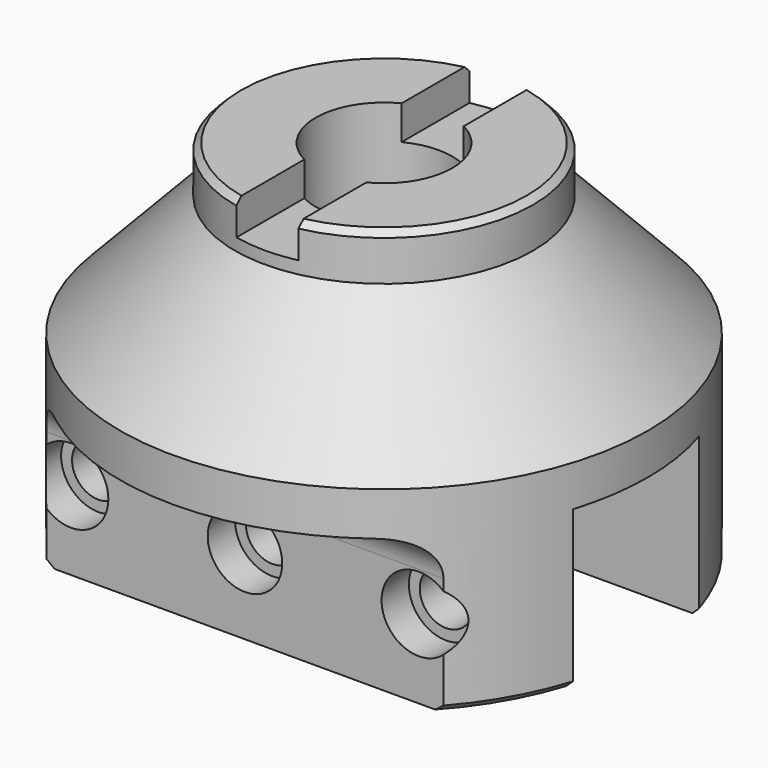
from build123d import *

# Parameters (mm, degrees)
F2_W      = 5.5
F2_H      = 5
F4_W      = 25.4
F4_H      = 25.4
F5_DEPTH  = 50
F6_W      = 10
F6_H      = 5.5
F7_DEPTH  = 25
F8_R      = 4.25
F9_DEPTH  = 50
F10_SIZE  = 1
F12_R     = 6
F13_DEPTH = 25
F15_DEPTH = 40


with BuildPart() as f1:
    # F0 (on Front) → F1 (revolve)
    with BuildSketch(Plane.XZ):
        Polygon((0, 59), (0, 0), (42.5, 0), (42.5, 32), (24, 51.5), (24, 59), align=None)
    revolve(axis=Axis((0, 0, 29.5), (0, 0, -1)))

    # F2 (on Front) → F3 (revolve, cut)
    with BuildSketch(Plane.XZ):
        Polygon((5.5, 35), (0, 35), (0, 25), (8.5, 25), (8.5, 35), align=None)
        with Locations((2.75, 37.5)):
            Rectangle(F2_W, F2_H)
        Polygon((11, 59), (0, 59), (0, 40), (5.5, 40), (11, 40), align=None)
    revolve(axis=Axis((0, 0, 30), (0, 0, -1)), mode=Mode.SUBTRACT)

    # F4 (on Right) → F5 (cut, symmetric)
    with BuildSketch(Plane.YZ):
        with Locations((0, 12.7)):
            Rectangle(F4_W, F4_H)
    extrude(amount=F5_DEPTH, both=True, mode=Mode.SUBTRACT)

    # F6 (on Front) → F7 (cut, symmetric)
    with BuildSketch(Plane.XZ):
        with Locations((0, 56.25)):
            Rectangle(F6_W, F6_H)
    extrude(amount=F7_DEPTH, both=True, mode=Mode.SUBTRACT)

    # F8 (on Front) → F9 (cut)
    with BuildSketch(Plane.XZ):
        with Locations((0, 12.7)):
            Circle(F8_R)
        with Locations((28, 12.7)):
            Circle(F8_R)
        with Locations((-28, 12.7)):
            Circle(F8_R)
    extrude(amount=F9_DEPTH, mode=Mode.SUBTRACT)

    # F10
    f10_edges = [f1.edges().sort_by_distance(p)[0] for p in [
        (0, -42.5, 0),
        (0, 42.5, 0),
        (-24, 0, 59),
        (18.654758, -15.099669, 59),
        (18.654758, 15.099669, 59),
    ]]
    chamfer(f10_edges, length=F10_SIZE)

    # F12 (on offset) → F13 (cut)
    with BuildSketch(Plane.XZ.offset(22.5)):
        with Locations((0, 12.7)):
            Circle(F12_R)
        with Locations((-28, 12.7)):
            Circle(F12_R)
        with Locations((28, 12.7)):
            Circle(F12_R)
    extrude(amount=F13_DEPTH, mode=Mode.SUBTRACT)

    # F14 (on Right) → F15 (cut, symmetric)
    with BuildSketch(Plane.YZ):
        with BuildLine():
            Line((-34, 25), (-49.6562516332, 25))
            Line((-49.6562516332, 25), (-49.6562516332, -7.5937491908))
            Line((-49.6562516332, -7.5937491908), (-28, -7.5937491908))
            Line((-28, -7.5937491908), (-28, 19))
            ThreePointArc((-28, 19), (-29.7573593129, 23.2426406871), (-34, 25))
        make_face()
        with BuildLine():
            Line((49.6562516332, -7.5937491908), (49.6562516332, 25))
            Line((49.6562516332, 25), (34, 25))
            ThreePointArc((34, 25), (29.7573593129, 23.2426406871), (28, 19))
            Line((28, 19), (28, -7.5937491908))
            Line((28, -7.5937491908), (49.6562516332, -7.5937491908))
        make_face()
    extrude(amount=F15_DEPTH, both=True, mode=Mode.SUBTRACT)


solid = f1.part
